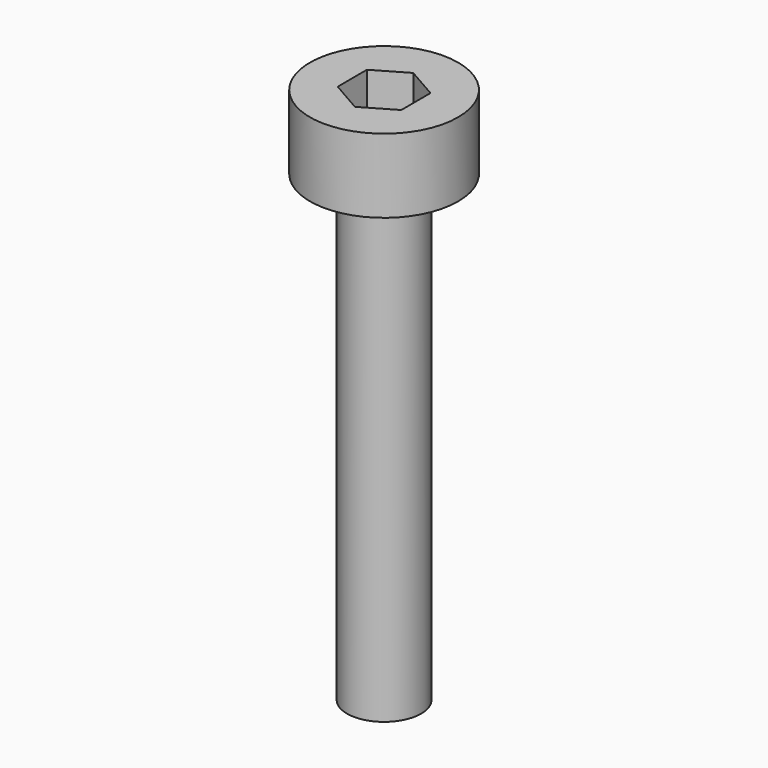
from build123d import *

# Parameters (mm, degrees)
F0_R     = 4
F1_DEPTH = 50
F0_R_2   = 8
F2_DEPTH = 8
F4_DEPTH = 5


with BuildPart() as f1:
    # F0 (on Top) → F1 (new body)
    with BuildSketch(Plane.XY):
        Circle(F0_R)
    extrude(amount=-F1_DEPTH)

    # F0 (on Top) → F2 (join)
    with BuildSketch(Plane.XY):
        Circle(F0_R_2)
        Circle(F0_R, mode=Mode.SUBTRACT)
        Circle(F0_R)
    extrude(amount=F2_DEPTH)

    # F3 (on face) → F4 (cut)
    with BuildSketch(Plane.XY.offset(8)):
        Polygon((-0.012543, 3.953086), (-3.429744, 1.965681), (-3.417202, -1.987405), (0.012543, -3.953086), (3.429744, -1.965681), (3.417202, 1.987405), align=None)
    extrude(amount=-F4_DEPTH, mode=Mode.SUBTRACT)


solid = f1.part
